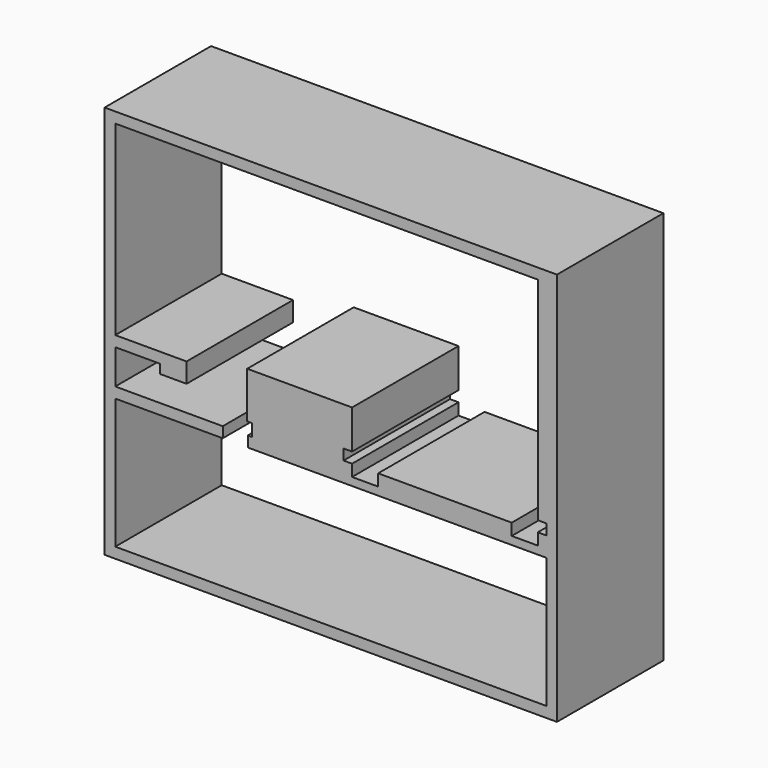
from build123d import *

# Parameters (mm, degrees)
F0_W     = 85
F0_H     = 74
F1_DEPTH = 25


with BuildPart() as f1:
    # F0 (on Front) → F1 (new body)
    with BuildSketch(Plane.XZ):
        with Locations((0, 37)):
            Rectangle(F0_W, F0_H)
        Polygon((40.5, 2), (-40.5, 2), (-40.5, 26.5), (-20.3, 26.5), (-20.3, 28.5), (-40.5, 28.5), (-40.5, 35), (-32.1, 35), (-32.1, 33.3), (-27.1, 33.3), (-27.1, 37), (-40.5, 37), (-40.5, 72), (38.9, 72), (38.9, 32.2), (40.5, 32.2), (40.5, 30.2), (38.9, 30.2), (38.9, 28), (34, 28), (34, 30.2), (8.9, 30.2), (8.9, 28), (4, 28), (4, 30.2), (2.4, 30.2), (2.4, 32.2), (4, 32.2), (4, 39.5), (-15.7, 39.5), (-15.7, 30.8), (-14.8, 30.8), (-14.8, 28.5), (-15.6, 28.5), (-15.6, 26.5), (40.5, 26.5), align=None, mode=Mode.SUBTRACT)
    extrude(amount=F1_DEPTH)


solid = f1.part
